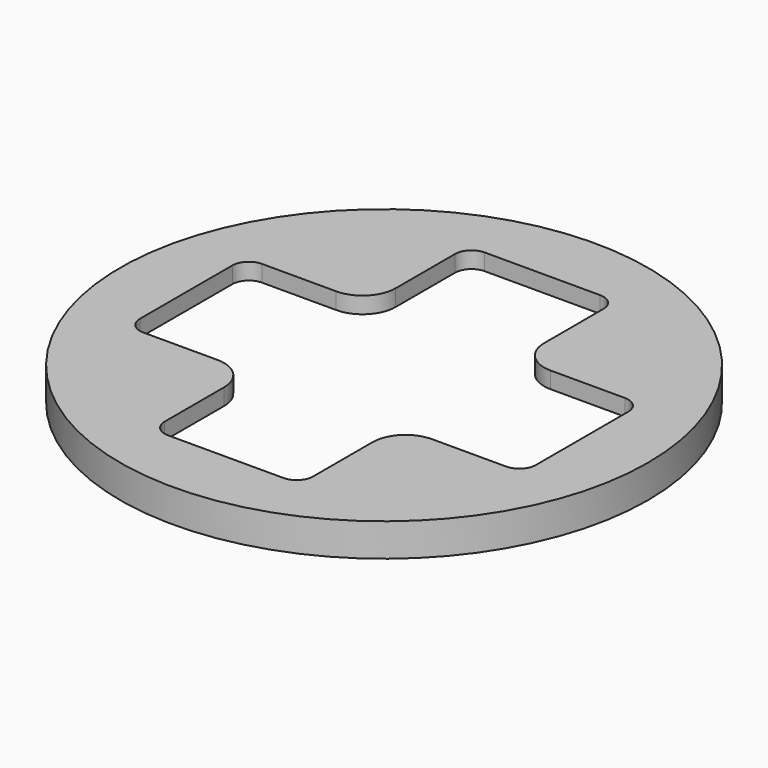
from build123d import *

# Parameters (mm, degrees)
F0_R     = 16
F0_R_2   = 15
F1_DEPTH = 2
F2_DEPTH = 1
F3_R     = 1
F4_R     = 2


with BuildPart() as f1:
    # F0 (on Top) → F1 (new body)
    with BuildSketch(Plane.XY):
        Circle(F0_R)
        Circle(F0_R_2, mode=Mode.SUBTRACT)
        Circle(F0_R_2)
        Polygon((4.5, -4.5), (4.5, -12), (-4.5, -12), (-4.5, -4.5), (-12, -4.5), (-12, 4.5), (-4.5, 4.5), (-4.5, 12), (4.5, 12), (4.5, 4.5), (12, 4.5), (12, -4.5), align=None, mode=Mode.SUBTRACT)
    extrude(amount=F1_DEPTH)

    # F0 (on Top) → F2 (cut)
    with BuildSketch(Plane.XY):
        Circle(F0_R_2)
        Polygon((4.5, -4.5), (4.5, -12), (-4.5, -12), (-4.5, -4.5), (-12, -4.5), (-12, 4.5), (-4.5, 4.5), (-4.5, 12), (4.5, 12), (4.5, 4.5), (12, 4.5), (12, -4.5), align=None, mode=Mode.SUBTRACT)
    extrude(amount=F2_DEPTH, mode=Mode.SUBTRACT)

    # F3
    f3_edges = [f1.edges().sort_by_distance(p)[0] for p in [
        (-4.5, 12, 1.5),
        (4.5, 12, 1.5),
        (12, 4.5, 1.5),
        (12, -4.5, 1.5),
        (4.5, -12, 1.5),
        (-4.5, -12, 1.5),
        (-12, -4.5, 1.5),
        (-12, 4.5, 1.5),
    ]]
    fillet(f3_edges, radius=F3_R)

    # F4
    f4_edges = [f1.edges().sort_by_distance(p)[0] for p in [
        (-4.5, 4.5, 1.5),
        (4.5, 4.5, 1.5),
        (4.5, -4.5, 1.5),
        (-4.5, -4.5, 1.5),
    ]]
    fillet(f4_edges, radius=F4_R)


solid = f1.part
